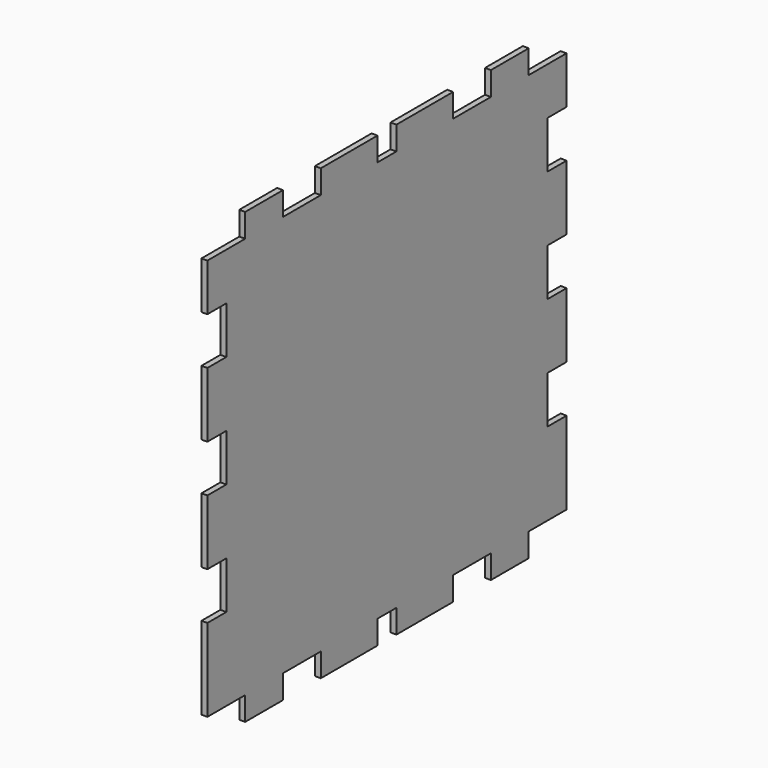
from build123d import *

# Parameters (mm, degrees)
F0_W      = 120.65
F0_H      = 120.65
F1_DEPTH  = 1.5875
F2_W      = 12.7
F2_H      = 6.35
F3_DEPTH  = 1.5875
F4_W      = 12.7
F4_H      = 6.35
F5_DEPTH  = 1.5875
F6_W      = 6.35
F6_H      = 6.35
F7_DEPTH  = 1.5875
F8_W      = 12.7
F8_H      = 6.35
F9_DEPTH  = 1.5875
F10_W     = 12.7
F10_H     = 6.35
F11_DEPTH = 1.5875
F12_W     = 6.35
F12_H     = 12.7
F13_DEPTH = 1.5875
F14_W     = 6.35
F14_H     = 12.7
F15_DEPTH = 1.5875
F16_W     = 6.35
F16_H     = 12.7
F17_DEPTH = 1.5875
F18_W     = 12.7
F18_H     = 6.35
F19_DEPTH = 1.5875
F20_W     = 12.7
F20_H     = 6.35
F20_W_2   = 6.35
F21_DEPTH = 1.5875
F22_W     = 6.35
F22_H     = 12.7
F23_DEPTH = 1.5875
F24_W     = 6.35
F24_H     = 12.7
F25_DEPTH = 1.5875


with BuildPart() as f1:
    # F0 (on Right) → F1 (new body)
    with BuildSketch(Plane.YZ):
        Rectangle(F0_W, F0_H)
    extrude(amount=F1_DEPTH)

    # F2 (on face) → F3 (cut)
    with BuildSketch(Plane(origin=(0, 0, 0), x_dir=(0, -1, 0), z_dir=(-1, 0, 0))):
        with Locations((53.975, 57.15)):
            Rectangle(F2_W, F2_H)
    extrude(amount=-F3_DEPTH, mode=Mode.SUBTRACT)

    # F4 (on face) → F5 (cut)
    with BuildSketch(Plane(origin=(0, 0, 0), x_dir=(0, -1, 0), z_dir=(-1, 0, 0))):
        with Locations((28.575, 57.15)):
            Rectangle(F4_W, F4_H)
    extrude(amount=-F5_DEPTH, mode=Mode.SUBTRACT)

    # F6 (on face) → F7 (cut)
    with BuildSketch(Plane(origin=(0, 0, 0), x_dir=(0, -1, 0), z_dir=(-1, 0, 0))):
        with Locations((0, 57.15)):
            Rectangle(F6_W, F6_H)
    extrude(amount=-F7_DEPTH, mode=Mode.SUBTRACT)

    # F8 (on face) → F9 (cut)
    with BuildSketch(Plane(origin=(0, 0, 0), x_dir=(0, -1, 0), z_dir=(-1, 0, 0))):
        with Locations((-53.975, 57.15)):
            Rectangle(F8_W, F8_H)
    extrude(amount=-F9_DEPTH, mode=Mode.SUBTRACT)

    # F10 (on face) → F11 (cut)
    with BuildSketch(Plane(origin=(0, 0, 0), x_dir=(0, -1, 0), z_dir=(-1, 0, 0))):
        with Locations((-28.575, 57.15)):
            Rectangle(F10_W, F10_H)
    extrude(amount=-F11_DEPTH, mode=Mode.SUBTRACT)

    # F12 (on face) → F13 (cut)
    with BuildSketch(Plane(origin=(0, 0, 0), x_dir=(0, -1, 0), z_dir=(-1, 0, 0))):
        with Locations((-57.15, 34.925)):
            Rectangle(F12_W, F12_H)
    extrude(amount=-F13_DEPTH, mode=Mode.SUBTRACT)

    # F14 (on face) → F15 (cut)
    with BuildSketch(Plane(origin=(0, 0, 0), x_dir=(0, -1, 0), z_dir=(-1, 0, 0))):
        with Locations((-57.15, 4.7625)):
            Rectangle(F14_W, F14_H)
    extrude(amount=-F15_DEPTH, mode=Mode.SUBTRACT)

    # F16 (on face) → F17 (cut)
    with BuildSketch(Plane(origin=(0, 0, 0), x_dir=(0, -1, 0), z_dir=(-1, 0, 0))):
        with Locations((-57.15, -25.4)):
            Rectangle(F16_W, F16_H)
    extrude(amount=-F17_DEPTH, mode=Mode.SUBTRACT)

    # F18 (on face) → F19 (cut)
    with BuildSketch(Plane(origin=(0, 0, 0), x_dir=(0, -1, 0), z_dir=(-1, 0, 0))):
        with Locations((-53.975, -57.15)):
            Rectangle(F18_W, F18_H)
        with Locations((53.975, -57.15)):
            Rectangle(F18_W, F18_H)
    extrude(amount=-F19_DEPTH, mode=Mode.SUBTRACT)

    # F20 (on face) → F21 (cut)
    with BuildSketch(Plane(origin=(0, 0, 0), x_dir=(0, -1, 0), z_dir=(-1, 0, 0))):
        with Locations((-28.575, -57.15)):
            Rectangle(F20_W, F20_H)
        with Locations((0, -57.15)):
            Rectangle(F20_W_2, F20_H)
        with Locations((28.575, -57.15)):
            Rectangle(F20_W, F20_H)
    extrude(amount=-F21_DEPTH, mode=Mode.SUBTRACT)

    # F22 (on face) → F23 (cut)
    with BuildSketch(Plane(origin=(0, 0, 0), x_dir=(0, -1, 0), z_dir=(-1, 0, 0))):
        with Locations((57.15, 34.925)):
            Rectangle(F22_W, F22_H)
        with Locations((57.15, 4.7625)):
            Rectangle(F22_W, F22_H)
    extrude(amount=-F23_DEPTH, mode=Mode.SUBTRACT)

    # F24 (on face) → F25 (cut)
    with BuildSketch(Plane(origin=(0, 0, 0), x_dir=(0, -1, 0), z_dir=(-1, 0, 0))):
        with Locations((57.15, -25.4)):
            Rectangle(F24_W, F24_H)
    extrude(amount=-F25_DEPTH, mode=Mode.SUBTRACT)


solid = f1.part
